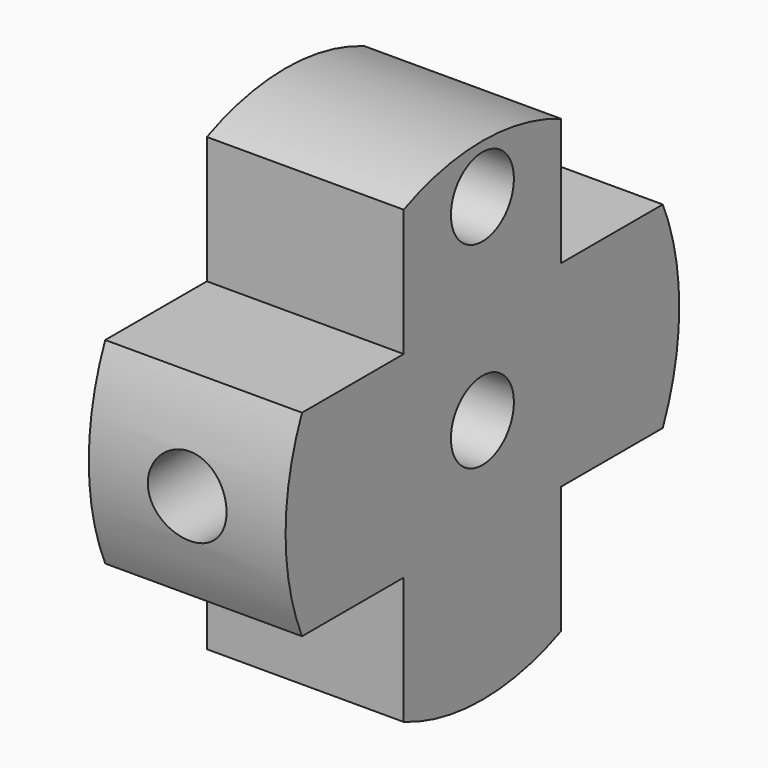
from build123d import *

# Parameters (mm, degrees)
F0_R          = 1
F1_DEPTH      = 5
F2_R          = 1
F3_DEPTH      = 25
F3_DEPTH_BACK = 25


with BuildPart() as f1:
    # F0 (on Right) → F1 (new body)
    with BuildSketch(Plane.YZ):
        with BuildLine():
            Line((-2.5, 2.5), (-5.7282196187, 2.5))
            ThreePointArc((-5.7282196187, 2.5), (-6.25, 0), (-5.7282196187, -2.5))
            Line((-5.7282196187, -2.5), (-2.5, -2.5))
            Line((-2.5, -2.5), (-2.5, -5.7282196187))
            ThreePointArc((-2.5, -5.7282196187), (0, -6.25), (2.5, -5.7282196187))
            Line((2.5, -5.7282196187), (2.5, -2.5))
            Line((2.5, -2.5), (5.7282196187, -2.5))
            ThreePointArc((5.7282196187, -2.5), (6.25, 0), (5.7282196187, 2.5))
            Line((5.7282196187, 2.5), (2.5, 2.5))
            Line((2.5, 2.5), (2.5, 5.7282196187))
            ThreePointArc((2.5, 5.7282196187), (0, 6.25), (-2.5, 5.7282196187))
            Line((-2.5, 5.7282196187), (-2.5, 2.5))
        make_face()
        Circle(F0_R, mode=Mode.SUBTRACT)
        with Locations((0, 5)):
            Circle(F0_R, mode=Mode.SUBTRACT)
    extrude(amount=F1_DEPTH)

    # F2 (on Front) → F3 (cut, two sides)
    with BuildSketch(Plane.XZ) as f3_sk:
        with Locations((2.5, 0)):
            Circle(F2_R)
    extrude(amount=-F3_DEPTH, mode=Mode.SUBTRACT)
    extrude(f3_sk.sketch, amount=F3_DEPTH_BACK, mode=Mode.SUBTRACT)


solid = f1.part
